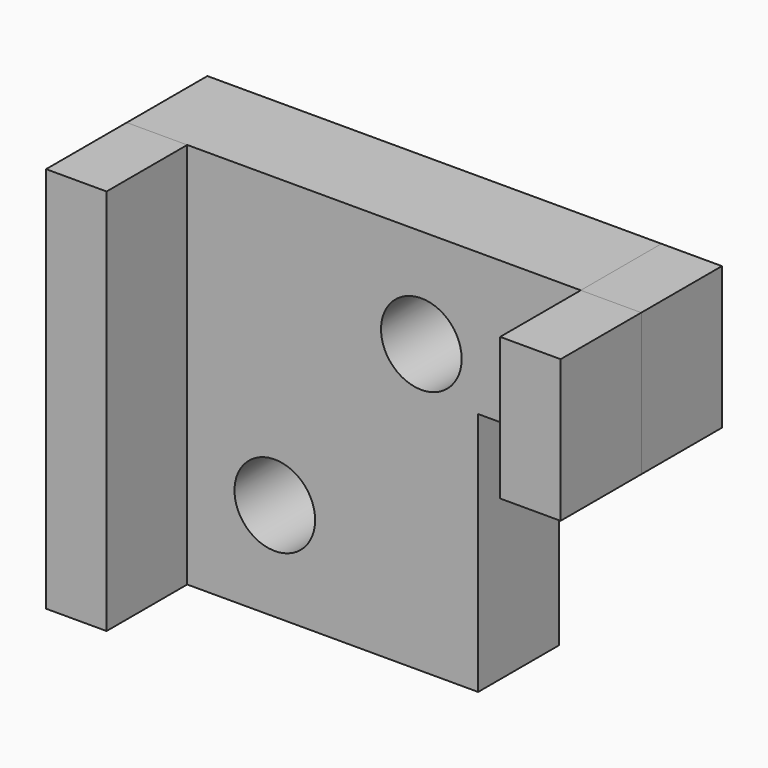
from build123d import *

# Parameters (mm, degrees)
F0_W     = 15
F0_H     = 95.963076
F0_H_2   = 35.286873
F1_DEPTH = 50
F0_R     = 10
F2_DEPTH = 25


with BuildPart() as f1:
    # F0 (on Front) → F1 (new body)
    with BuildSketch(Plane.XZ):
        with Locations((-52.858899, -2.901991)):
            Rectangle(F0_W, F0_H)
        with Locations((59.733263, 27.43611)):
            Rectangle(F0_W, F0_H_2)
    extrude(amount=F1_DEPTH)


with BuildPart() as f2:
    # F0 (on Front) → F2 (new body)
    with BuildSketch(Plane.XZ):
        with Locations((-52.858899, -2.901991)):
            Rectangle(F0_W, F0_H)
        Polygon((52.233263, 45.079547), (-45.358899, 45.079547), (-45.358899, -50.883529), (26.782462, -50.883529), (26.782462, 9.792674), (52.233263, 9.792674), align=None)
        with Locations((-23.638461, -26.51849)):
            Circle(F0_R, mode=Mode.SUBTRACT)
        with Locations((12.695081, 20.488029)):
            Circle(F0_R, mode=Mode.SUBTRACT)
        with Locations((59.733263, 27.43611)):
            Rectangle(F0_W, F0_H_2)
    extrude(amount=F2_DEPTH)


solid = Compound([f1.part, f2.part])
